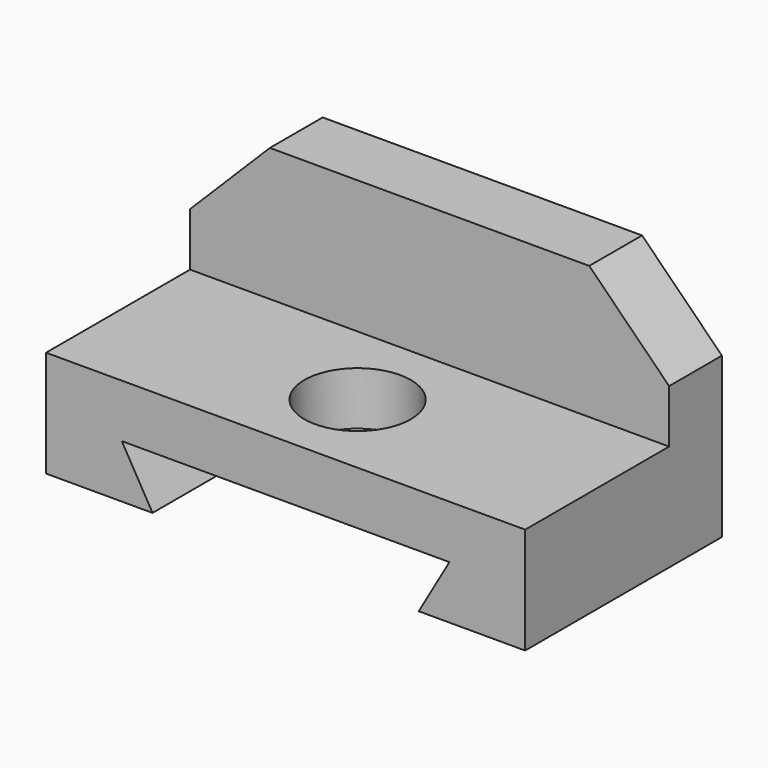
from build123d import *

# Parameters (mm, degrees)
F0_W     = 114.3
F0_H     = 58.674
F1_DEPTH = 57.15
F2_W     = 42.926
F2_H     = 31.75
F3_DEPTH = 143.256
F5_DEPTH = 25.4
F7_DEPTH = 101.092
F8_R     = 12.7
F9_DEPTH = 25.4


with BuildPart() as f1:
    # F0 (on Top) → F1 (new body)
    with BuildSketch(Plane.XY):
        with Locations((7.98354, -3.90625)):
            Rectangle(F0_W, F0_H)
    extrude(amount=F1_DEPTH)

    # F2 (on face) → F3 (cut)
    with BuildSketch(Plane.YZ.offset(65.13354)):
        with Locations((-11.78025, 41.275)):
            Rectangle(F2_W, F2_H)
    extrude(amount=-F3_DEPTH, mode=Mode.SUBTRACT)

    # F4 (on face) → F5 (cut)
    with BuildSketch(Plane.XZ.offset(-9.68275)):
        Polygon((65.13354, 38.1), (65.13354, 57.15), (46.08354, 57.15), align=None)
        Polygon((-49.16646, 38.1), (-30.11646, 57.15), (-49.16646, 57.15), align=None)
    extrude(amount=-F5_DEPTH, mode=Mode.SUBTRACT)

    # F6 (on face) → F7 (cut)
    with BuildSketch(Plane.XZ.offset(33.24325)):
        Polygon((39.73354, 12.7), (-23.76646, 12.7), (-31.098808, 12.7), (-23.76646, 0), (39.73354, 0), (47.065889, 12.7), align=None)
    extrude(amount=-F7_DEPTH, mode=Mode.SUBTRACT)

    # F8 (on face) → F9 (cut)
    with BuildSketch(Plane.XY.offset(25.4)):
        with Locations((7.98354, -11.78025)):
            Circle(F8_R)
    extrude(amount=-F9_DEPTH, mode=Mode.SUBTRACT)


solid = f1.part
